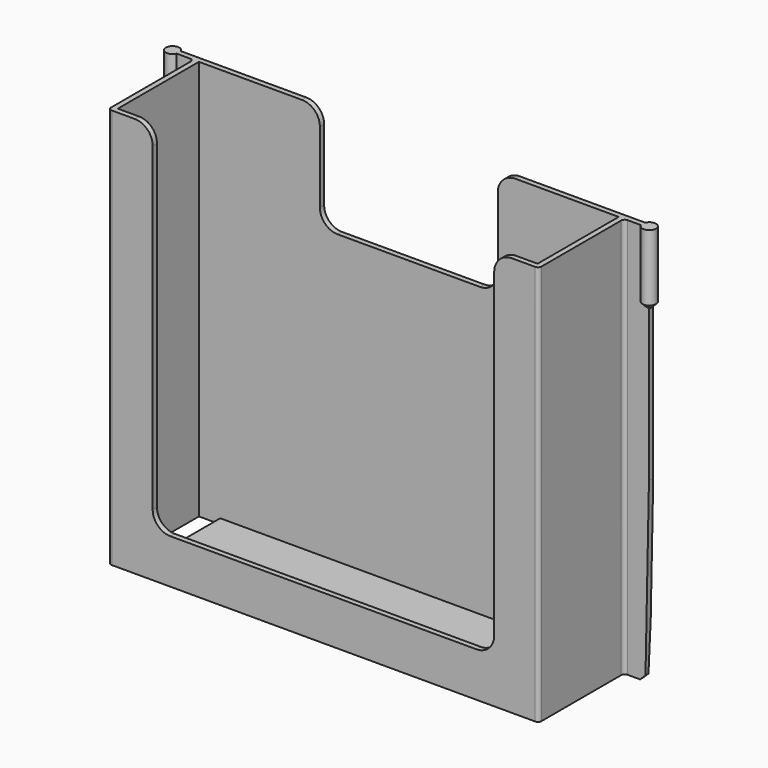
from build123d import *

# Parameters (mm, degrees)
PAD_DEPTH        = 112.5
SKETCH002_W      = 118
SKETCH002_H      = 28.5
POCKET_DEPTH     = 111
SKETCH003_W      = 96
SKETCH003_H      = 30
POCKET001_DEPTH  = 100
SKETCH004_R      = 1.9
PAD001_DEPTH     = 20
SKETCH005_W      = 50
SKETCH005_H      = 50
POCKET002_DEPTH  = 30
FILLET_R         = 5
FILLET001_R      = 1
CHAMFER_SIZE2    = 50
CHAMFER_SIZE     = 1
CHAMFER001_SIZE  = 1.5
CHAMFER002_SIZE  = 1.35
CHAMFER003_SIZE2 = 15
CHAMFER003_SIZE  = 0.5
SKETCH006_W      = 6
SKETCH006_H      = 28.5
POCKET003_DEPTH  = 5


with BuildPart() as part:
    # Sketch → Pad (new body)
    with BuildSketch(Plane.XY):
        Polygon((-67.5, 0), (67.5, 0), (67.5, -1.5), (60.5, -1.5), (60.5, -31.5), (-60.5, -31.5), (-60.5, -1.5), (-67.5, -1.5), align=None)
    extrude(amount=-PAD_DEPTH)

    # Sketch002 → Pocket (cut)
    with BuildSketch(Plane.XY):
        with Locations((0, -15.75)):
            Rectangle(SKETCH002_W, SKETCH002_H)
    extrude(amount=-POCKET_DEPTH, mode=Mode.SUBTRACT)

    # Sketch003 → Pocket001 (cut)
    with BuildSketch(Plane.XY):
        with Locations((0, -25)):
            Rectangle(SKETCH003_W, SKETCH003_H)
    extrude(amount=-POCKET001_DEPTH, mode=Mode.SUBTRACT)

    # Sketch004 → Pad001 (join)
    with BuildSketch(Plane.XY):
        with Locations((-67, -0.75)):
            Circle(SKETCH004_R)
        with Locations((67, -0.75)):
            Circle(SKETCH004_R)
    extrude(amount=-PAD001_DEPTH)

    # Sketch005 → Pocket002 (cut)
    with BuildSketch(Plane.XY):
        Rectangle(SKETCH005_W, SKETCH005_H)
    extrude(amount=-POCKET002_DEPTH, mode=Mode.SUBTRACT)

    # Fillet
    fillet_edges = [part.edges().sort_by_distance(p)[0] for p in [
        (-25, -0.75, 0),
        (25, -0.75, 0),
        (25, -0.75, -30),
        (-25, -0.75, -30),
        (-48, -30.75, 0),
        (48, -30.75, 0),
        (48, -30.75, -100),
        (-48, -30.75, -100),
    ]]
    fillet(fillet_edges, radius=FILLET_R)

    # Fillet001
    fillet001_edges = [part.edges().sort_by_distance(p)[0] for p in [
        (-60.5, -1.5, -56.25),
        (-60.5, -31.5, -56.25),
        (60.5, -31.5, -56.25),
        (60.5, -1.5, -56.25),
    ]]
    fillet(fillet001_edges, radius=FILLET001_R)

    # Chamfer
    chamfer_edges = [part.edges().sort_by_distance(p)[0] for p in [
        (67.5, -0.75, -112.5),
        (-67.5, -0.75, -112.5),
    ]]
    chamfer_side = part.faces().sort_by_distance((0, -15.664499, -112.5))[0]
    chamfer(chamfer_edges, length=CHAMFER_SIZE, length2=CHAMFER_SIZE2, reference=chamfer_side)

    # Chamfer001
    chamfer001_edges = [part.edges().sort_by_distance(p)[0] for p in [
        (-66.5, -0.75, -112.5),
        (66.5, -0.75, -112.5),
    ]]
    chamfer(chamfer001_edges, length=CHAMFER001_SIZE)

    # Chamfer002
    chamfer002_edges = [part.edges().sort_by_distance(p)[0] for p in [
        (-68.9, -0.75, -20),
        (67.382853, 1.111028, -20),
    ]]
    chamfer(chamfer002_edges, length=CHAMFER002_SIZE)

    # Chamfer003
    chamfer003_edges = [part.edges().sort_by_distance(p)[0] for p in [
        (0, 0, -112.5),
    ]]
    chamfer003_side = part.faces().sort_by_distance((0, -15.693743, -112.5))[0]
    chamfer(chamfer003_edges, length=CHAMFER003_SIZE, length2=CHAMFER003_SIZE2, reference=chamfer003_side)

    # Sketch006 (on Face46 of Chamfer003) → Pocket003 (cut)
    with BuildSketch(Plane.XY.offset(-111)):
        with Locations((56, -15.75)):
            Rectangle(SKETCH006_W, SKETCH006_H)
        with Locations((-56, -15.75)):
            Rectangle(SKETCH006_W, SKETCH006_H)
    extrude(amount=-POCKET003_DEPTH, mode=Mode.SUBTRACT)


solid = part.part
